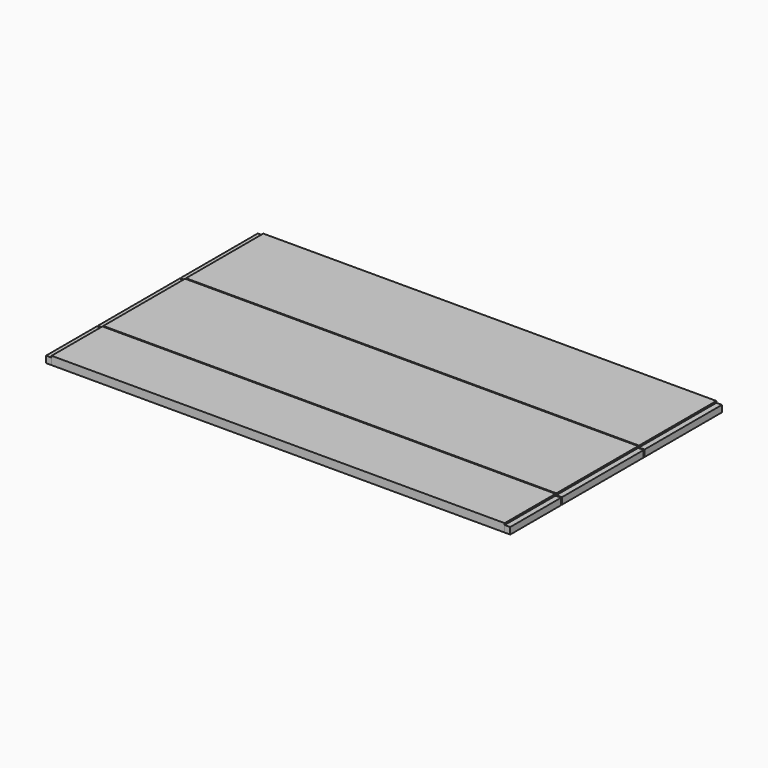
from build123d import *

# Parameters (mm, degrees)
F0_W     = 12.7
F0_H     = 234.95
F0_W_2   = 1041.4
F0_H_2   = 222.25
F0_H_3   = 146.05
F1_DEPTH = 15.24
F2_DEPTH = 19.05


with BuildPart() as f1:
    # F0 (on Top) → F1 (new body)
    with BuildSketch(Plane.XY):
        with Locations((-543.020068, -174.155784)):
            Rectangle(F0_W, F0_H)
        with Locations((-15.970068, -174.155784)):
            Rectangle(F0_W_2, F0_H)
        with Locations((511.079932, -174.155784)):
            Rectangle(F0_W, F0_H)
        with Locations((-543.020068, 56.984216)):
            Rectangle(F0_W, F0_H_2)
        with Locations((-15.970068, 56.984216)):
            Rectangle(F0_W_2, F0_H_2)
        with Locations((511.079932, 56.984216)):
            Rectangle(F0_W, F0_H_2)
        with Locations((-543.020068, -367.195784)):
            Rectangle(F0_W, F0_H_3)
        with Locations((-15.970068, -367.195784)):
            Rectangle(F0_W_2, F0_H_3)
        with Locations((511.079932, -367.195784)):
            Rectangle(F0_W, F0_H_3)
    extrude(amount=F1_DEPTH)


with BuildPart() as f2:
    # F0 (on Top) → F2 (new body)
    with BuildSketch(Plane.XY):
        with Locations((-15.970068, -367.195784)):
            Rectangle(F0_W_2, F0_H_3)
        with Locations((-15.970068, -174.155784)):
            Rectangle(F0_W_2, F0_H)
        with Locations((-15.970068, 56.984216)):
            Rectangle(F0_W_2, F0_H_2)
    extrude(amount=F2_DEPTH)


solid = Compound([f1.part, f2.part])
